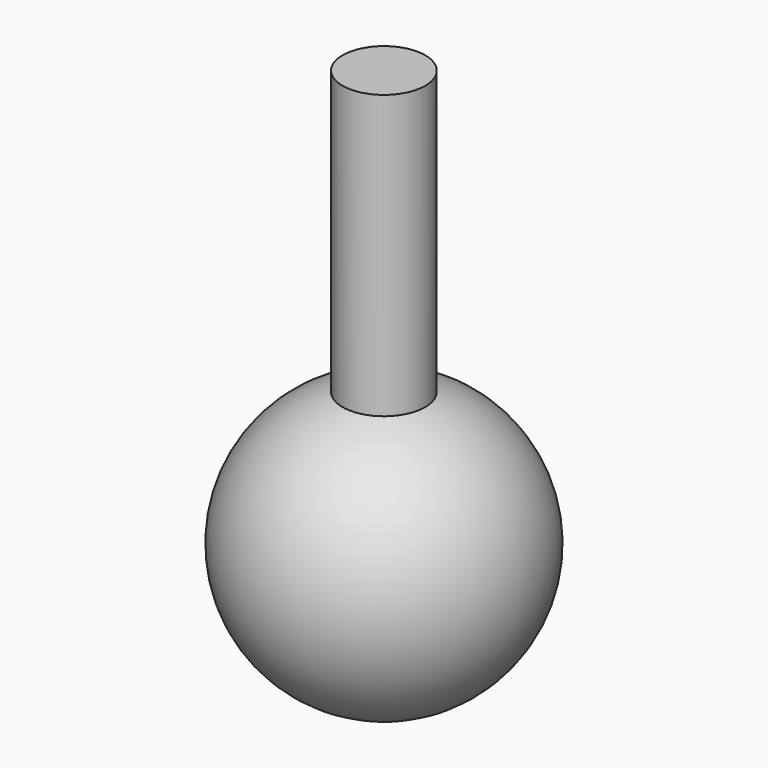
from build123d import *

# Parameters (mm, degrees)
F2_R     = 10.227703
F3_DEPTH = 103


with BuildPart() as f1:
    # F0 (on Front) → F1 (revolve)
    with BuildSketch(Plane.XZ):
        with BuildLine():
            Line((0, 34.535923), (0, -34.535923))
            ThreePointArc((0, -34.535923), (34.535923, 0), (0, 34.535923))
        make_face()
    revolve(axis=Axis((0, 0, 0), (0, 0, -1)))

    # F2 (on Top) → F3 (join)
    with BuildSketch(Plane.XY):
        Circle(F2_R)
    extrude(amount=F3_DEPTH)


solid = f1.part
